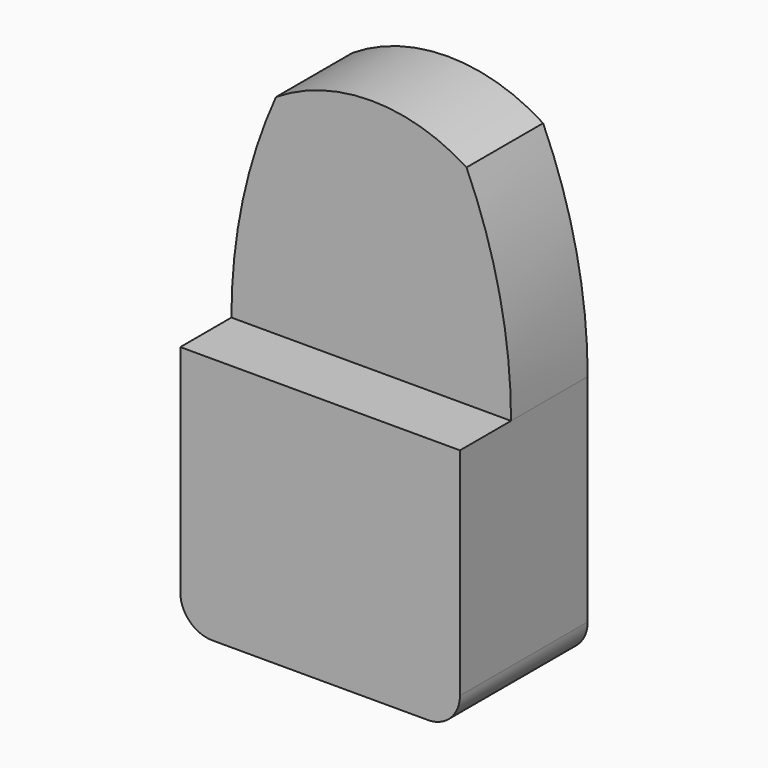
from build123d import *

# Parameters (mm, degrees)
F1_DEPTH = 19.05
F2_DEPTH = 31.75


with BuildPart() as f1:
    # F0 (on Front) → F1 (new body)
    with BuildSketch(Plane.XZ):
        with BuildLine():
            ThreePointArc((-18.047368, 41.993555), (-24.667298, 21.714159), (-26.906852, 0.4995))
            Line((-26.906852, 0.4995), (28.711593, 0.4995))
            ThreePointArc((28.711593, 0.4995), (26.472039, 21.714159), (19.852109, 41.993555))
            ThreePointArc((19.852109, 41.993555), (0.902371, 47.536649), (-18.047368, 41.993555))
        make_face()
    extrude(amount=F1_DEPTH)

    # F0 (on Front) → F2 (join)
    with BuildSketch(Plane.XZ):
        with BuildLine():
            ThreePointArc((-26.906852, -42.446553), (-25.04698, -46.936681), (-20.556852, -48.796553))
            Line((-20.556852, -48.796553), (22.361593, -48.796553))
            ThreePointArc((22.361593, -48.796553), (26.851721, -46.936681), (28.711593, -42.446553))
            Line((28.711593, -42.446553), (28.711593, 0.4995))
            Line((28.711593, 0.4995), (-26.906852, 0.4995))
            Line((-26.906852, 0.4995), (-26.906852, -42.446553))
        make_face()
    extrude(amount=F2_DEPTH)


solid = f1.part
